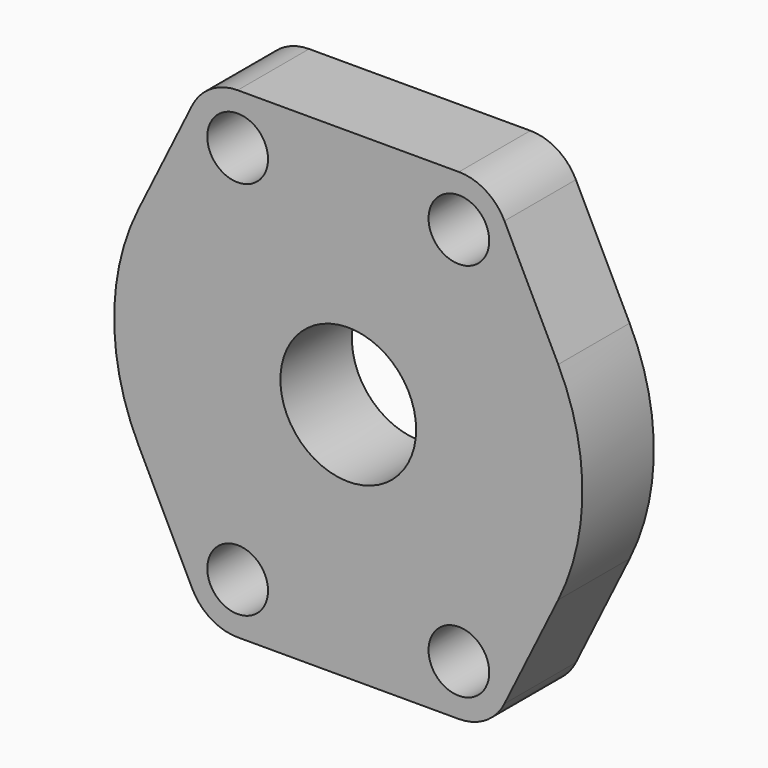
from build123d import *

# Parameters (mm, degrees)
F0_R     = 8.5
F0_R_2   = 19
F1_DEPTH = 25


with BuildPart() as f1:
    # F0 (on Front) → F1 (new body)
    with BuildSketch(Plane.XZ):
        with BuildLine():
            Line((-43.715996, 59.483897), (-58.76085, 29.010438))
            ThreePointArc((-58.76085, 29.010438), (-65.532, 0), (-58.76085, -29.010438))
            Line((-58.76085, -29.010438), (-43.715996, -59.483897))
            ThreePointArc((-43.715996, -59.483897), (-38.470598, -65.267388), (-30.9626, -67.4105))
            Line((-30.9626, -67.4105), (30.9626, -67.4105))
            ThreePointArc((30.9626, -67.4105), (38.470598, -65.267388), (43.715996, -59.483897))
            Line((43.715996, -59.483897), (58.76085, -29.010438))
            ThreePointArc((58.76085, -29.010438), (65.532, 0), (58.76085, 29.010438))
            Line((58.76085, 29.010438), (43.715996, 59.483897))
            ThreePointArc((43.715996, 59.483897), (38.470598, 65.267388), (30.9626, 67.4105))
            Line((30.9626, 67.4105), (-30.9626, 67.4105))
            ThreePointArc((-30.9626, 67.4105), (-38.470598, 65.267388), (-43.715996, 59.483897))
        make_face()
        with Locations((-30.9626, -53.1875)):
            Circle(F0_R, mode=Mode.SUBTRACT)
        with Locations((30.9626, -53.1875)):
            Circle(F0_R, mode=Mode.SUBTRACT)
        Circle(F0_R_2, mode=Mode.SUBTRACT)
        with Locations((-30.9626, 53.1875)):
            Circle(F0_R, mode=Mode.SUBTRACT)
        with Locations((30.9626, 53.1875)):
            Circle(F0_R, mode=Mode.SUBTRACT)
    extrude(amount=F1_DEPTH)


solid = f1.part
